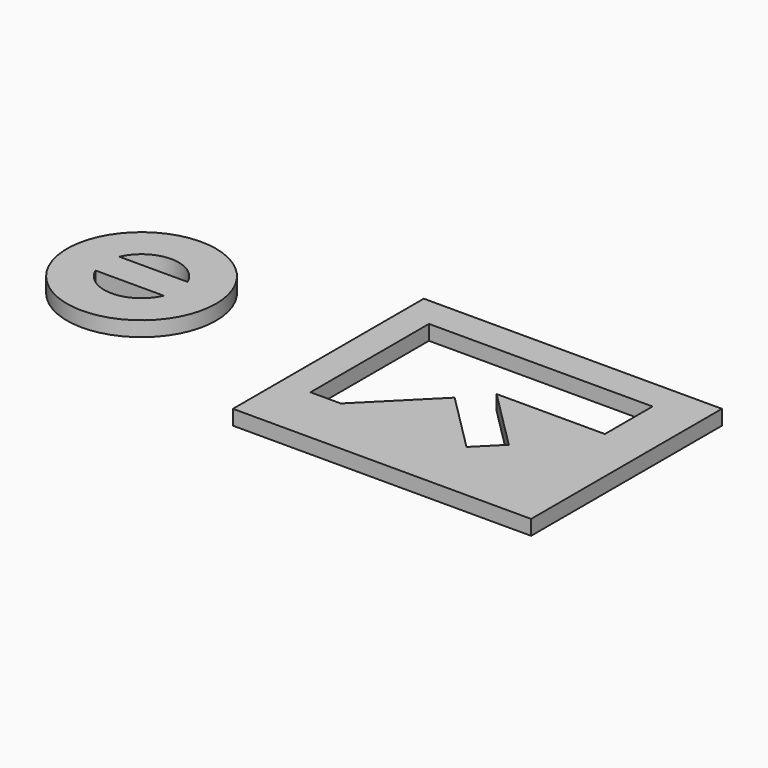
from build123d import *

# Parameters (mm, degrees)
F0_R     = 25
F0_W     = 100
F0_H     = 80
F1_DEPTH = 5


with BuildPart() as f1:
    # F0 (on Top) → F1 (new body)
    with BuildSketch(Plane.XY):
        with Locations((-65.672178, 43.762353)):
            Circle(F0_R)
        with BuildLine():
            ThreePointArc((-54.215738, 38.762353), (-65.672178, 31.262353), (-77.128617, 38.762353))
            Line((-77.128617, 38.762353), (-54.215738, 38.762353))
        make_face(mode=Mode.SUBTRACT)
        with BuildLine():
            Line((-54.215738, 48.762353), (-77.128617, 48.762353))
            ThreePointArc((-77.128617, 48.762353), (-65.672178, 56.262353), (-54.215738, 48.762353))
        make_face(mode=Mode.SUBTRACT)
        with Locations((50, 40)):
            Rectangle(F0_W, F0_H)
        Polygon((20.166516, 20), (10, 20), (10, 69.668166), (85, 69.668166), (85, 49.668166), (48.692464, 49.668166), (69.168812, 29.191819), (61.284958, 21.307965), (41.379719, 41.213203), align=None, mode=Mode.SUBTRACT)
    extrude(amount=F1_DEPTH)


solid = f1.part
